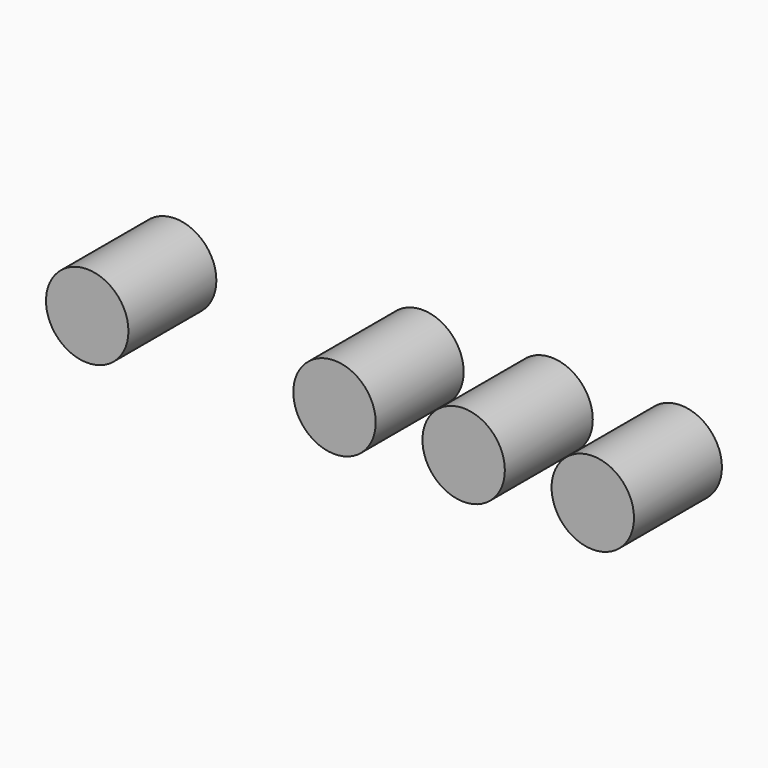
from build123d import *

# Parameters (mm, degrees)
F0_R     = 9.525
F1_DEPTH = 25.4


with BuildPart() as f1:
    # F0 (on Front) → F1 (new body)
    with BuildSketch(Plane.XZ):
        with Locations((86.995, 0)):
            Circle(F0_R)
        with Locations((116.84, 0)):
            Circle(F0_R)
        with Locations((57.15, 0)):
            Circle(F0_R)
        Circle(F0_R)
    extrude(amount=F1_DEPTH)


solid = f1.part
